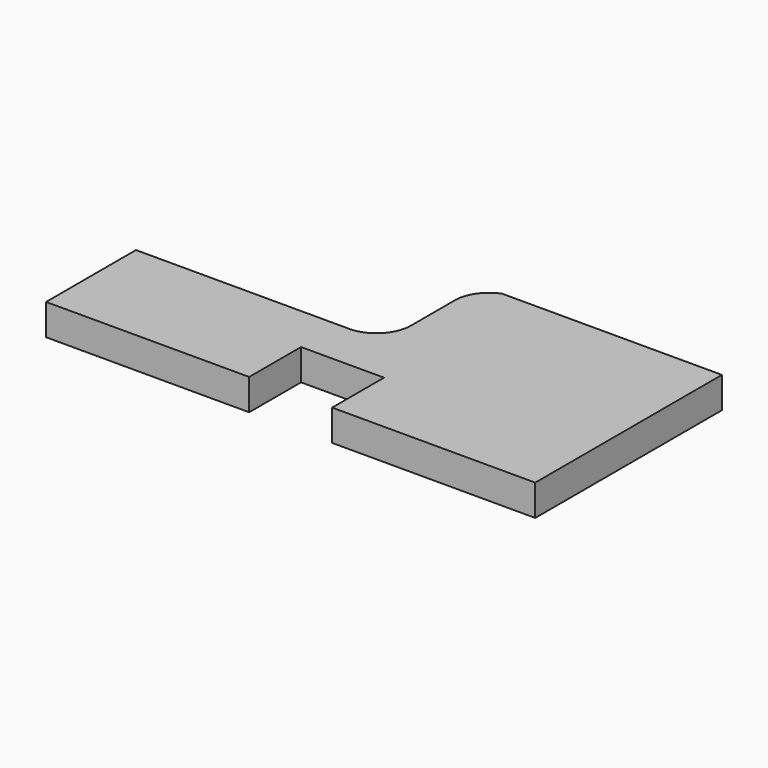
from build123d import *

# Parameters (mm, degrees)
F1_DEPTH = 36


with BuildPart() as f1:
    # F0 (on Top) → F1 (new body)
    with BuildSketch(Plane.XY):
        with BuildLine():
            Line((-288.386514, -22.46141), (-288.386514, -152.46141))
            Line((-288.386514, -152.46141), (-53.386514, -152.46141))
            Line((-53.386514, -152.46141), (-53.386514, -77.46141))
            Line((-53.386514, -77.46141), (42.613486, -77.46141))
            Line((42.613486, -77.46141), (42.613486, -152.46141))
            Line((42.613486, -152.46141), (277.613486, -152.46141))
            Line((277.613486, -152.46141), (277.613486, 117.53859))
            Line((277.613486, 117.53859), (23.203639, 117.53859))
            ThreePointArc((23.203639, 117.53859), (4.079002, 101.6535), (-1.967393, 77.53859))
            Line((-1.967393, 77.53859), (-1.967393, 17.53859))
            ThreePointArc((-1.967393, 17.53859), (-14.864905, -12.026696), (-45.386514, -22.46141))
            Line((-45.386514, -22.46141), (-288.386514, -22.46141))
        make_face()
    extrude(amount=F1_DEPTH)


solid = f1.part
